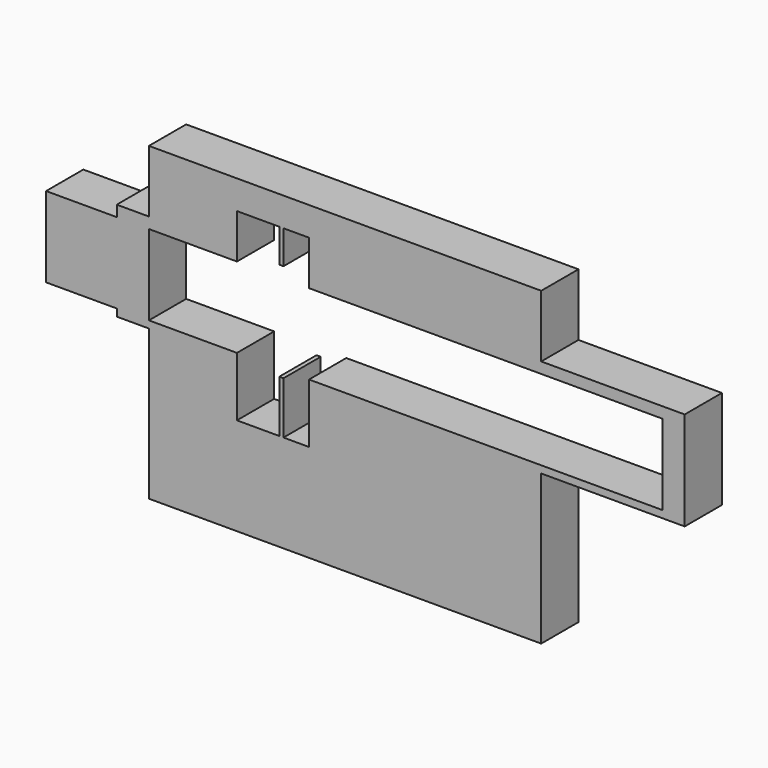
from build123d import *

# Parameters (mm, degrees)
F0_W     = 126.7150789499
F0_H     = 3.926018253
F0_H_2   = 6.0044974089
F0_W_2   = 48.0359867215
F0_W_3   = 17.5516083837
F0_H_3   = 43.8790284097
F0_W_4   = 38.5673493147
F1_DEPTH = 25.4


with BuildPart() as f1:
    # F0 (on Front) → F1 (new body)
    with BuildSketch(Plane.XZ):
        Polygon((0, 28.4861717373), (0, 0), (-13.9287291095, 0), (-13.9287291095, 28.4861717373), (-16.2381511182, 28.4861717373), (-16.2381511182, 0), (-39.3323749304, 0), (-39.3323749304, 28.4861717373), (-87.3683616519, 28.4861717373), (-87.3683616519, -53.2673746347), (126.7150789499, -53.2673746347), (126.7150789499, 28.4861717373), align=None)
        with Locations((63.357539475, 30.4491808638)):
            Rectangle(F0_W, F0_H)
        Polygon((126.7150789499, 32.4121899903), (126.7150789499, 28.4861717373), (205.0045132637, 28.4861717373), (205.0045132637, 82.2957158089), (126.7150789499, 82.2957158089), (126.7150789499, 76.2912184), (192.995518446, 76.2912184), (192.995518446, 32.4121899903), align=None)
        with Locations((63.357539475, 79.2934671044)):
            Rectangle(F0_W, F0_H_2)
        with Locations((-63.3503682911, 30.4491808638)):
            Rectangle(F0_W_2, F0_H)
        Polygon((0, 100.5401462317), (0, 82.2957158089), (126.7150789499, 82.2957158089), (126.7150789499, 116.2442192435), (-87.3683616519, 116.2442192435), (-87.3683616519, 82.2957158089), (-39.3323749304, 82.2957158089), (-39.3323749304, 100.5401462317), (-16.2381511182, 100.5401462317), (-16.2381511182, 82.2957158089), (-13.9287291095, 82.2957158089), (-13.9287291095, 100.5401462317), align=None)
        with Locations((-96.1441658437, 30.4491808638)):
            Rectangle(F0_W_3, F0_H)
        with Locations((-63.3503682911, 79.2934671044)):
            Rectangle(F0_W_2, F0_H_2)
        with Locations((-96.1441658437, 54.3517041951)):
            Rectangle(F0_W_3, F0_H_3)
        with Locations((-96.1441658437, 79.2934671044)):
            Rectangle(F0_W_3, F0_H_2)
        with Locations((-124.2036446929, 54.3517041951)):
            Rectangle(F0_W_4, F0_H_3)
    extrude(amount=F1_DEPTH)


solid = f1.part
